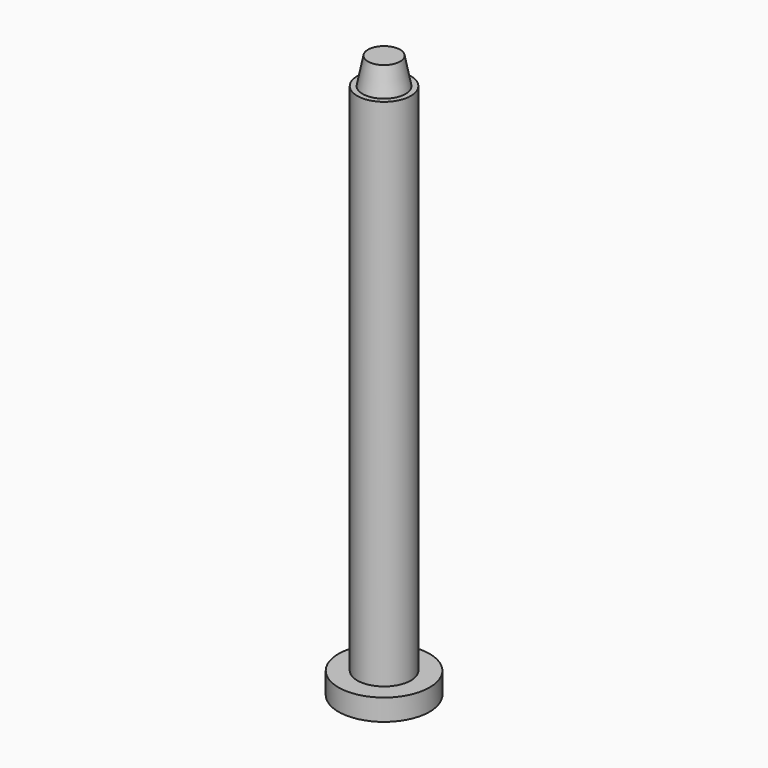
from build123d import *

# Parameters (mm, degrees)
F0_R     = 8.5
F1_DEPTH = 4
F2_R     = 5
F3_DEPTH = 100


with BuildPart() as f1:
    # F0 (on Top) → F1 (new body)
    with BuildSketch(Plane.XY):
        Circle(F0_R)
    extrude(amount=F1_DEPTH)

    # F2 (on Top) → F3 (join)
    with BuildSketch(Plane.XY):
        Circle(F2_R)
    extrude(amount=F3_DEPTH)

    # F4 (on Right) → F5 (revolve)
    with BuildSketch(Plane.YZ):
        Polygon((3, 105), (0, 105), (0, 100), (4, 100), align=None)
    revolve(axis=Axis((0, 0, 102.5), (0, 0, -1)))


solid = f1.part
